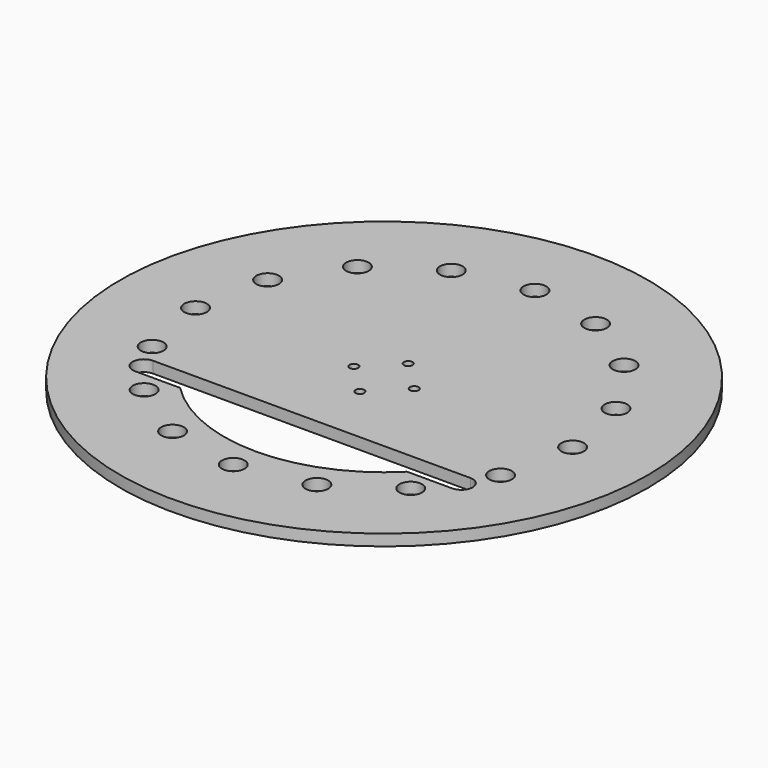
from build123d import *

# Parameters (mm, degrees)
F0_R     = 70
F0_R_2   = 3
F0_R_3   = 1.15
F1_DEPTH = 3


with BuildPart() as f1:
    # F0 (on Top) → F1 (new body)
    with BuildSketch(Plane.XY):
        Circle(F0_R)
        with Locations((-35.355339, -35.355339)):
            Circle(F0_R_2, mode=Mode.SUBTRACT)
        with Locations((-19.134172, -46.193977)):
            Circle(F0_R_2, mode=Mode.SUBTRACT)
        with Locations((-46.193977, -19.134172)):
            Circle(F0_R_2, mode=Mode.SUBTRACT)
        with Locations((0, -50)):
            Circle(F0_R_2, mode=Mode.SUBTRACT)
        with Locations((19.134172, -46.193977)):
            Circle(F0_R_2, mode=Mode.SUBTRACT)
        with Locations((35.355339, -35.355339)):
            Circle(F0_R_2, mode=Mode.SUBTRACT)
        with BuildLine():
            ThreePointArc((30.103986, -30), (0, -42.5), (-30.103986, -30))
            Line((-30.103986, -30), (-42.083251, -30))
            ThreePointArc((-42.083251, -30), (-45.083251, -27), (-42.083251, -24))
            Line((-42.083251, -24), (-35.07492, -24))
            Line((-35.07492, -24), (35.07492, -24))
            Line((35.07492, -24), (42.083251, -24))
            ThreePointArc((42.083251, -24), (45.083251, -27), (42.083251, -30))
            Line((42.083251, -30), (30.103986, -30))
        make_face(mode=Mode.SUBTRACT)
        with Locations((0, -8)):
            Circle(F0_R_3, mode=Mode.SUBTRACT)
        with Locations((46.193977, -19.134172)):
            Circle(F0_R_2, mode=Mode.SUBTRACT)
        with Locations((-50, 0)):
            Circle(F0_R_2, mode=Mode.SUBTRACT)
        with Locations((-46.193977, 19.134172)):
            Circle(F0_R_2, mode=Mode.SUBTRACT)
        with Locations((-8, 0)):
            Circle(F0_R_3, mode=Mode.SUBTRACT)
        with Locations((-35.355339, 35.355339)):
            Circle(F0_R_2, mode=Mode.SUBTRACT)
        with Locations((-19.134172, 46.193977)):
            Circle(F0_R_2, mode=Mode.SUBTRACT)
        with Locations((8, 0)):
            Circle(F0_R_3, mode=Mode.SUBTRACT)
        with Locations((0, 8)):
            Circle(F0_R_3, mode=Mode.SUBTRACT)
        with Locations((50, 0)):
            Circle(F0_R_2, mode=Mode.SUBTRACT)
        with Locations((46.193977, 19.134172)):
            Circle(F0_R_2, mode=Mode.SUBTRACT)
        with Locations((0, 50)):
            Circle(F0_R_2, mode=Mode.SUBTRACT)
        with Locations((19.134172, 46.193977)):
            Circle(F0_R_2, mode=Mode.SUBTRACT)
        with Locations((35.355339, 35.355339)):
            Circle(F0_R_2, mode=Mode.SUBTRACT)
    extrude(amount=F1_DEPTH)


solid = f1.part
